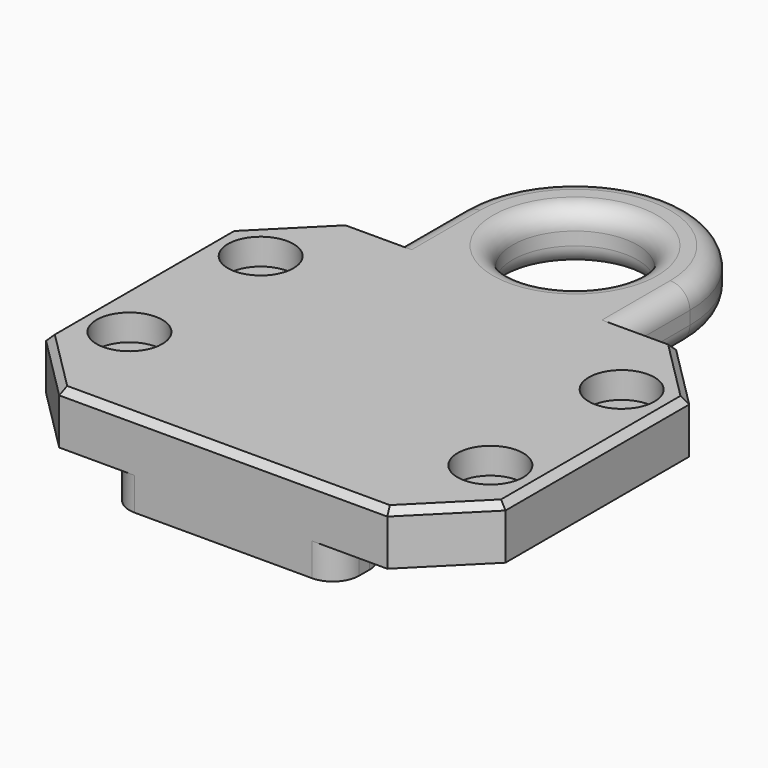
from build123d import *

# Parameters (mm, degrees)
F0_W           = 35
F0_H           = 45
F0_H_2         = 10
F1_DEPTH       = 8
F2_DEPTH       = 5
F3_R           = 4
F4_R           = 3
F5_SIZE        = 10
F7_D           = 5
F7_DEPTH       = 18
F7_CBORE_D     = 10
F7_CBORE_DEPTH = 4
F7_TIP         = 1.5021515476
F8_SIZE        = 1


with BuildPart() as f1:
    # F0 (on Top) → F1 (new body)
    with BuildSketch(Plane.XY):
        Polygon((-17.5, -28.5), (-17.5, 16.5), (-35, 16.5), (-35, -38.5), (-17.5, -38.5), align=None)
        with Locations((0, -6)):
            Rectangle(F0_W, F0_H)
        Polygon((35, 16.5), (17.5, 16.5), (17.5, -28.5), (17.5, -38.5), (35, -38.5), align=None)
        with Locations((0, -33.5)):
            Rectangle(F0_W, F0_H_2)
        with BuildLine():
            Line((9.5, 28.5), (17.5, 28.5))
            ThreePointArc((17.5, 28.5), (0, 46), (-17.5, 28.5))
            Line((-17.5, 28.5), (-9.5, 28.5))
            ThreePointArc((-9.5, 28.5), (0, 38), (9.5, 28.5))
        make_face()
        with BuildLine():
            Line((17.5, 16.5), (17.5, 28.5))
            Line((17.5, 28.5), (9.5, 28.5))
            ThreePointArc((9.5, 28.5), (0, 19), (-9.5, 28.5))
            Line((-9.5, 28.5), (-17.5, 28.5))
            Line((-17.5, 28.5), (-17.5, 16.5))
            Line((-17.5, 16.5), (17.5, 16.5))
        make_face()
        with BuildLine():
            Line((17.5, 16.5), (17.5, 28.5))
            Line((17.5, 28.5), (9.5, 28.5))
            ThreePointArc((9.5, 28.5), (0, 19), (-9.5, 28.5))
            Line((-9.5, 28.5), (-17.5, 28.5))
            Line((-17.5, 28.5), (-17.5, 16.5))
            Line((-17.5, 16.5), (17.5, 16.5))
        make_face()
    extrude(amount=F1_DEPTH)

    # F0 (on Top) → F2 (join)
    with BuildSketch(Plane.XY):
        with Locations((0, -33.5)):
            Rectangle(F0_W, F0_H_2)
    extrude(amount=-F2_DEPTH)

    # F3
    f3_edges = [f1.edges().sort_by_distance(p)[0] for p in [
        (17.5, -28.5, -2.5),
        (17.5, -38.5, -2.5),
        (-17.5, -28.5, -2.5),
        (-17.5, -38.5, -2.5),
    ]]
    fillet(f3_edges, radius=F3_R)

    # F4
    f4_edges = [f1.edges().sort_by_distance(p)[0] for p in [
        (0, 46, 8),
        (0, 46, 0),
        (9.5, 28.5, 0),
        (9.5, 28.5, 8),
    ]]
    fillet(f4_edges, radius=F4_R)

    # F5
    f5_edges = [f1.edges().sort_by_distance(p)[0] for p in [
        (-35, 16.5, 4),
        (35, 16.5, 4),
        (35, -38.5, 4),
        (-35, -38.5, 4),
    ]]
    chamfer(f5_edges, length=F5_SIZE)

    # F7
    with Locations(Plane.XY.offset(8)):
        with Locations((-27.5, 3), (27.5, 3), (27.5, -22), (-27.5, -22)):
            CounterBoreHole(F7_D / 2, F7_CBORE_D / 2, F7_CBORE_DEPTH, depth=F7_DEPTH)
            with Locations((0, 0, -(F7_DEPTH + F7_TIP / 2))):  # 118° drill point
                Cone(0, F7_D / 2, F7_TIP, mode=Mode.SUBTRACT)

    # F8
    f8_edges = [f1.edges().sort_by_distance(p)[0] for p in [
        (-35, -11, 8),
        (-30, 11.5, 8),
        (-30, -33.5, 8),
        (0, -38.5, 8),
        (30, -33.5, 8),
        (35, -11, 8),
        (30, 11.5, 8),
        (19.75, 16.5, 8),
        (-19.75, 16.5, 8),
    ]]
    chamfer(f8_edges, length=F8_SIZE)


solid = f1.part
